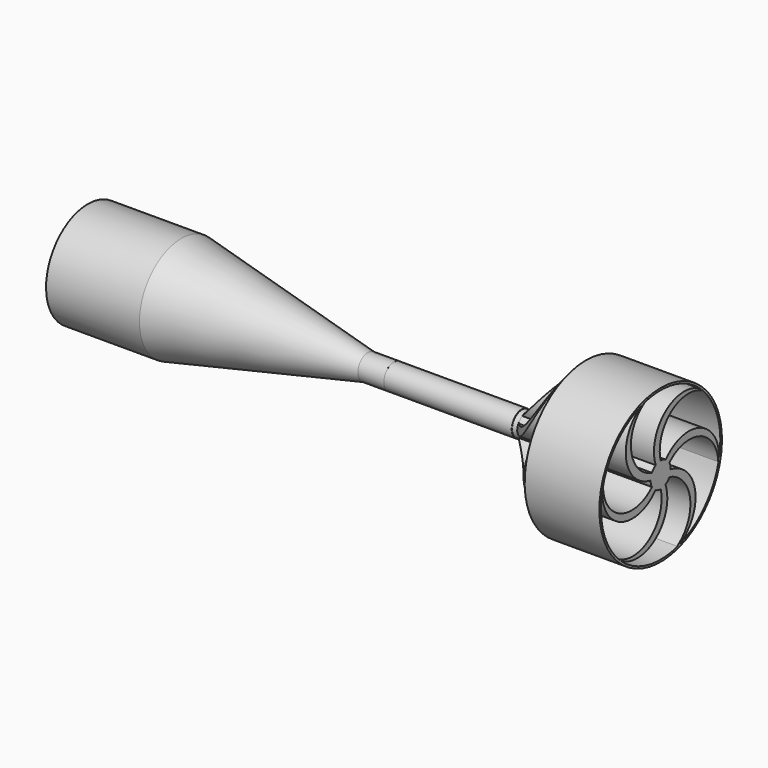
from build123d import *

# Parameters (mm, degrees)
POCKET_DEPTH       = 5
SKETCH003_R        = 2.35684
PAD_DEPTH          = 50
PAD001_DEPTH       = 25
POLARPATTERN_COUNT = 6
SKETCH006_R        = 14.362117
SKETCH006_R_2      = 13.985217
PAD002_DEPTH       = 14


with BuildPart() as part:
    # Sketch → Revolution (revolve)
    with BuildSketch(Plane(origin=(0, 0, -11), x_dir=(1, 0, 0), z_dir=(0, -1, 0))):
        Polygon((0.972993, 20.787131), (0.972993, 19.830843), (1.394372, 19.830843), (1.394372, 18.515368), (1.560666, 18.515368), (2.060712, 19.224604), (2.060712, 19.830843), (18.072832, 19.830843), (19.716526, 17.696983), (51.49464, 11.586367), (58.33868, 11.586367), (58.33868, 13.36224), (53.468026, 13.36224), (18.477287, 20.787131), align=None)
    revolve(axis=Axis((0, 0, 0), (1, 0, 0)))

    # Sketch001 (on Face4 of Revolution) → Pocket (cut)
    with BuildSketch(Plane(origin=(1.394372, 0, 0), x_dir=(0, 0, -1), z_dir=(-1, 0, 0))):
        with BuildLine():
            ThreePointArc((1.205844, 8.707899), (0, 8.790993), (-1.205844, 8.707899))
            Line((-1.205844, -8.707899), (-1.205844, 8.707899))
            ThreePointArc((-1.205844, -8.707899), (0, -8.790993), (1.205844, -8.707899))
            Line((1.205844, 8.707899), (1.205844, -8.707899))
        make_face()
    extrude(amount=-POCKET_DEPTH, mode=Mode.SUBTRACT)

    # Sketch003 (on Face7 of Pocket) → Pad (join)
    with BuildSketch(Plane(origin=(58.33868, 0, 0), x_dir=(0, 0, 1), z_dir=(1, 0, 0))):
        Circle(SKETCH003_R)
    extrude(amount=PAD_DEPTH)

    # Sketch004 (on Face21 of Pad) → Pad001 (join)
    with BuildSketch(Plane(origin=(108.33868, 0, 0), x_dir=(0, 0, 1), z_dir=(1, 0, 0))):
        with BuildLine():
            ThreePointArc((13.352879, 4.209828), (5.909012, 8.093063), (0, 2.128648))
            Line((0.928212, -0.046902), (0, 2.128648))
            ThreePointArc((13.352879, 3.866495), (5.644636, 6.659169), (0.928212, -0.046902))
            Line((13.352879, 4.209828), (13.352879, 3.866495))
        make_face()
    pad001 = extrude(amount=-PAD001_DEPTH)

    # PolarPattern: Pad001 ×6 about axis
    polarpattern_axis = Axis((108.33868, 0, 0), (1, 0, 0))
    for i in range(1, POLARPATTERN_COUNT):
        add(pad001.rotate(polarpattern_axis, i * 360 / POLARPATTERN_COUNT))

    # Sketch005 → Groove (revolve, cut)
    with BuildSketch(Plane.XZ):
        Polygon((83.275982, 2.287075), (94.821365, 14.822832), (82.303631, 14.822832), (82.303631, 2.287075), align=None)
    revolve(axis=Axis((0, 0, 0), (1, 0, 0)), mode=Mode.SUBTRACT)

    # Sketch006 (on Face51 of Groove) → Pad002 (join)
    with BuildSketch(Plane(origin=(108.33868, 0, 0), x_dir=(0, 0, 1), z_dir=(1, 0, 0))):
        Circle(SKETCH006_R)
        Circle(SKETCH006_R_2, mode=Mode.SUBTRACT)
    extrude(amount=-PAD002_DEPTH)


solid = part.part
